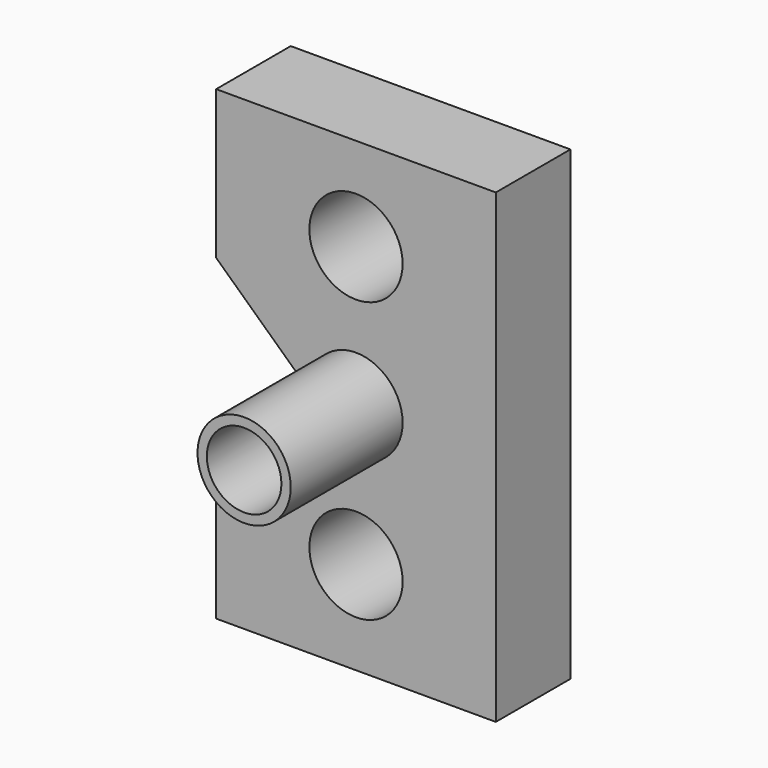
from build123d import *

# Parameters (mm, degrees)
F0_R     = 12.7
F1_DEPTH = 25.4
F2_R     = 12.7
F2_R_2   = 10.16
F3_DEPTH = 38.1


with BuildPart() as f1:
    # F0 (on Front) → F1 (new body)
    with BuildSketch(Plane.XZ):
        Polygon((38.1, 63.5), (-38.1, 63.5), (-38.1, 23.043888), (-13.334835, 0), (-38.1, -23.043888), (-38.1, -63.5), (38.1, -63.5), align=None)
        with Locations((0, -38.1)):
            Circle(F0_R, mode=Mode.SUBTRACT)
        with Locations((0, 38.1)):
            Circle(F0_R, mode=Mode.SUBTRACT)
    extrude(amount=F1_DEPTH)

    # F2 (on face) → F3 (join)
    with BuildSketch(Plane.XZ.offset(25.4)):
        Circle(F2_R)
        Circle(F2_R_2, mode=Mode.SUBTRACT)
    extrude(amount=F3_DEPTH)


solid = f1.part
